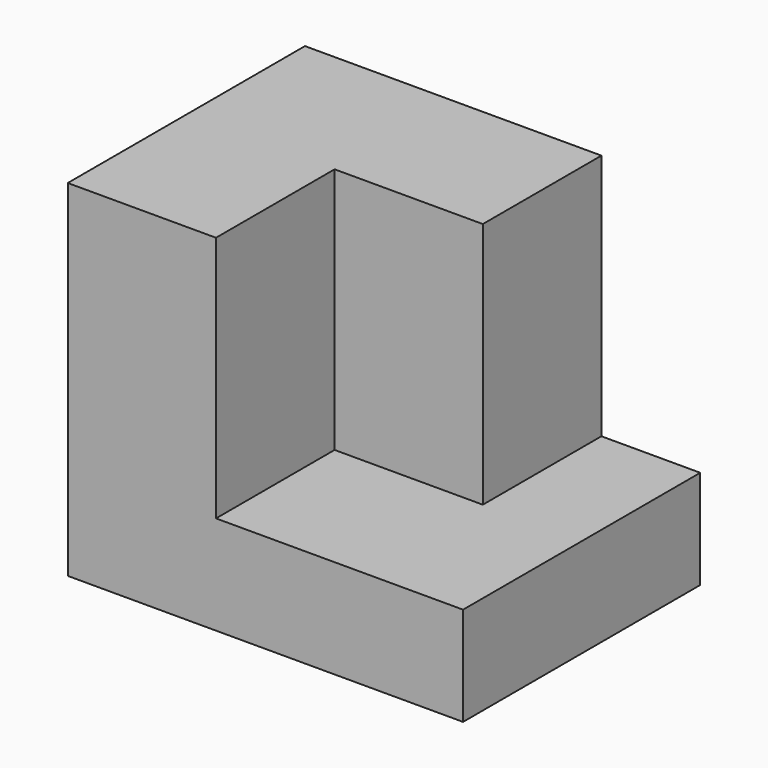
from build123d import *

# Parameters (mm, degrees)
F1_DEPTH = 15
F2_W     = 15
F2_H     = 25
F3_DEPTH = 15


with BuildPart() as f1:
    # F0 (on Front) → F1 (new body, symmetric)
    with BuildSketch(Plane.XZ):
        Polygon((0, 35), (0, 0), (40, 0), (40, 10), (15, 10), (15, 35), align=None)
    extrude(amount=F1_DEPTH, both=True)

    # F2 (on Front) → F3 (join)
    with BuildSketch(Plane.XZ):
        with Locations((22.5, 22.5)):
            Rectangle(F2_W, F2_H)
    extrude(amount=-F3_DEPTH)


solid = f1.part
